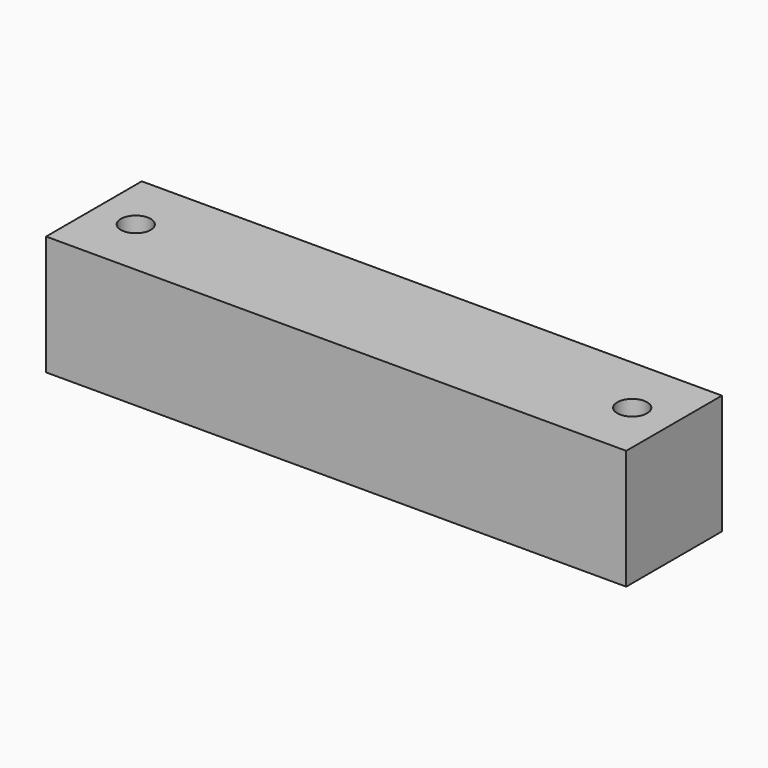
from build123d import *

# Parameters (mm, degrees)
SKETCH_W     = 97
SKETCH_H     = 20
SKETCH_R     = 2.5
PAD_DEPTH    = 20
SKETCH001_R  = 5
POCKET_DEPTH = 8


with BuildPart() as part:
    # Sketch → Pad (new body)
    with BuildSketch(Plane.XY):
        Rectangle(SKETCH_W, SKETCH_H)
        with Locations((-41.5, 0)):
            Circle(SKETCH_R, mode=Mode.SUBTRACT)
        with Locations((41.5, 0)):
            Circle(SKETCH_R, mode=Mode.SUBTRACT)
    extrude(amount=PAD_DEPTH)

    # Sketch001 → Pocket (cut)
    with BuildSketch(Plane(origin=(0, 0, 0), x_dir=(1, 0, 0), z_dir=(0, 0, -1))):
        with Locations((-41.5, 0)):
            Circle(SKETCH001_R)
        with Locations((41.5, 0)):
            Circle(SKETCH001_R)
    extrude(amount=-POCKET_DEPTH, mode=Mode.SUBTRACT)


solid = part.part
